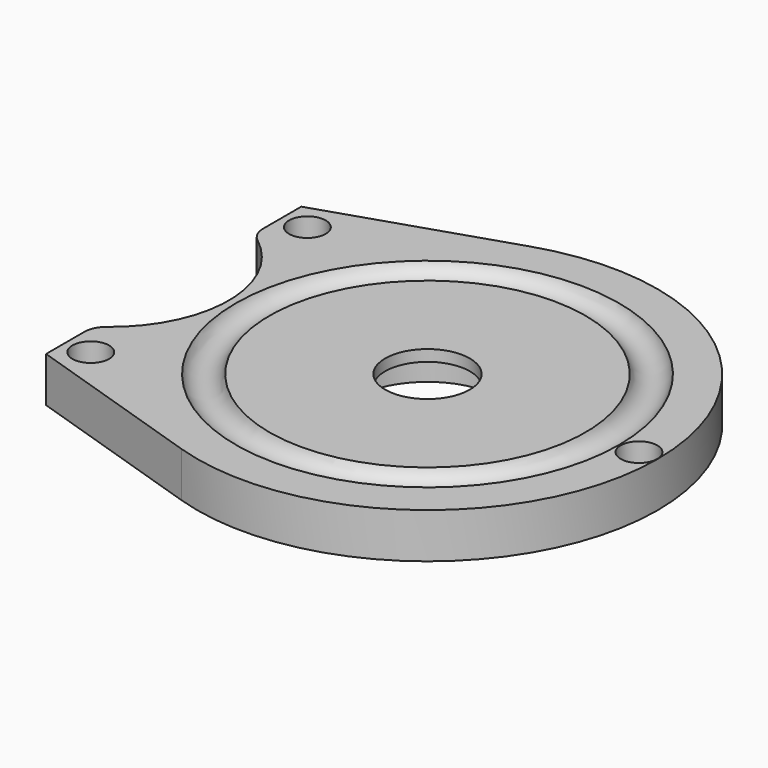
from build123d import *

# Parameters (mm, degrees)
F0_R            = 40.8
F1_DEPTH        = 8
F4_R            = 3.15
F6_W            = 4.8
F6_H            = 38.4
F7_DEPTH        = 8.001
F9_DEPTH        = 8
F10_R           = 21
F11_DEPTH       = 8.001
F12_R           = 4
F14_D           = 3.3
F14_CBORE_D     = 6.5
F14_CBORE_DEPTH = 6


with BuildPart() as f1:
    # F0 (on Top) → F1 (new body)
    with BuildSketch(Plane.XY):
        Circle(F0_R)
    extrude(amount=F1_DEPTH)

    # F2 (on Right) → F3 (revolve, cut)
    with BuildSketch(Plane.YZ):
        Polygon((0, 8), (0, 0), (13.025, 0), (13.025, 6), (7.5, 6), (7.5, 8), align=None)
    revolve(axis=Axis((0, 0, 10.7360328796), (0, 0, 1)), mode=Mode.SUBTRACT)

    # F4 (on Right) → F5 (revolve, cut)
    with BuildSketch(Plane.YZ):
        with Locations((31, 9)):
            Circle(F4_R)
    revolve(axis=Axis((0, 0, 6.3867427816), (0, 0, 1)), mode=Mode.SUBTRACT)

    # F6 (on Top) → F7 (cut, through all)
    with BuildSketch(Plane.XY):
        with Locations((-38.4, 0)):
            Rectangle(F6_W, F6_H)
    extrude(amount=F7_DEPTH, mode=Mode.SUBTRACT)

    # F8 (on Top) → F9 (join, through all)
    with BuildSketch(Plane.XY):
        with BuildLine():
            Line((-45, 28.2782724184), (-45, -28.2782724184))
            Line((-45, -28.2782724184), (-12.6078933705, -38.8031058648))
            ThreePointArc((-12.6078933705, -38.8031058648), (-26.2059585661, -31.2711965814), (-36, -19.2))
            Line((-36, -19.2), (-36, 19.2))
            ThreePointArc((-36, 19.2), (-26.2059585661, 31.2711965814), (-12.6078933705, 38.8031058648))
            Line((-12.6078933705, 38.8031058648), (-45, 28.2782724184))
        make_face()
    extrude(amount=F9_DEPTH)

    # F10 (on face) → F11 (cut, through all)
    with BuildSketch(Plane.XY.offset(8)):
        with Locations((-56.25, 0)):
            Circle(F10_R)
    extrude(amount=-F11_DEPTH, mode=Mode.SUBTRACT)

    # F12
    f12_edges = [f1.edges().sort_by_distance(p)[0] for p in [
        (-45, -17.732386, 4),
        (-45, 17.732386, 4),
    ]]
    fillet(f12_edges, radius=F12_R)

    # F14 (through all)
    with Locations(Plane.XY.offset(8)):
        with Locations((-40.5, 24), (-40.5, -24), (37.5, 0)):
            CounterBoreHole(F14_D / 2, F14_CBORE_D / 2, F14_CBORE_DEPTH)


solid = f1.part
